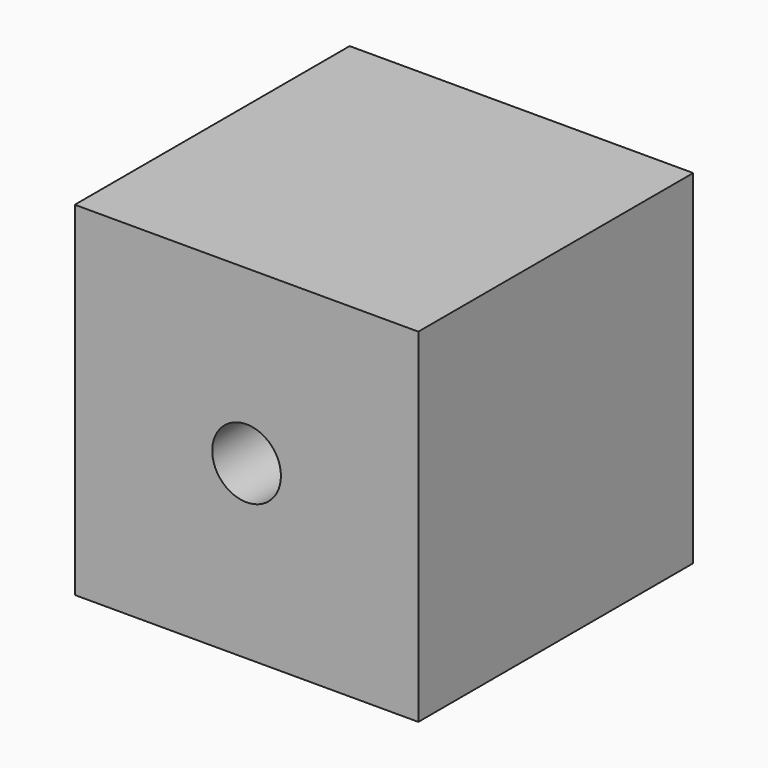
from build123d import *

# Parameters (mm, degrees)
F0_W     = 50.8
F0_H     = 50.8
F1_DEPTH = 25.4
F4_R     = 5.08
F5_DEPTH = 25.4


with BuildPart() as f1:
    # F0 (on Front) → F1 (new body, symmetric)
    with BuildSketch(Plane.XZ):
        Rectangle(F0_W, F0_H)
    extrude(amount=F1_DEPTH, both=True)

    # F2 (on Front) → F3 (revolve, cut)
    with BuildSketch(Plane.XZ):
        with BuildLine():
            Line((0, -12.7), (0, 12.7))
            ThreePointArc((0, 12.7), (-12.7, 0), (0, -12.7))
        make_face()
    revolve(axis=Axis((0, 0, 0), (0, 0, -1)), mode=Mode.SUBTRACT)

    # F4 (on face) → F5 (cut)
    with BuildSketch(Plane.XZ.offset(25.4)):
        Circle(F4_R)
    extrude(amount=-F5_DEPTH, mode=Mode.SUBTRACT)


solid = f1.part
